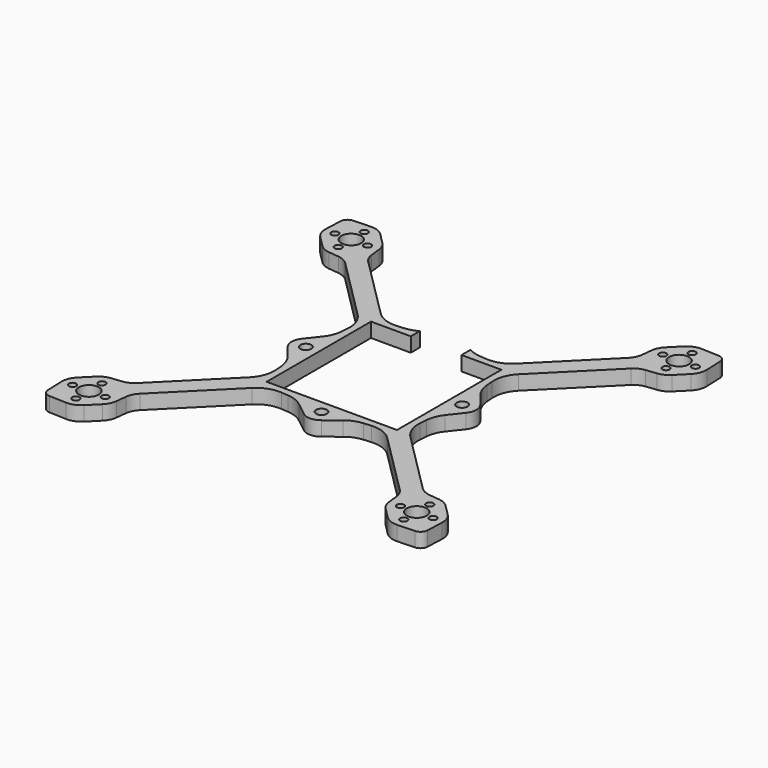
from build123d import *

# Parameters (mm, degrees)
F0_R     = 1
F0_R_2   = 2.75
F0_R_3   = 1.5
F1_DEPTH = 4


with BuildPart() as f1:
    # F0 (on Top) → F1 (new body)
    with BuildSketch(Plane.XY):
        with BuildLine():
            Line((-18, -18), (-18, 18))
            Line((-18, 18), (-7, 18))
            Line((-7, 18), (-7, 21.136517))
            ThreePointArc((-7, 21.136517), (-8.652636, 20.40417), (-10.427502, 20.061548))
            Line((-10.427502, 20.061548), (-12.414831, 19.907267))
            ThreePointArc((-12.414831, 19.907267), (-15.806951, 20.37921), (-18.69088, 22.226414))
            Line((-18.69088, 22.226414), (-35.882908, 39.418442))
            ThreePointArc((-35.882908, 39.418442), (-36.85389, 40.788032), (-37.316792, 42.401818))
            Line((-37.316792, 42.401818), (-37.636526, 45.279423))
            ThreePointArc((-37.636526, 45.279423), (-38.099429, 46.893209), (-39.070411, 48.262799))
            Line((-39.070411, 48.262799), (-41.9391, 51.131488))
            ThreePointArc((-41.9391, 51.131488), (-43.653931, 52.252674), (-45.674474, 52.591959))
            Line((-45.674474, 52.591959), (-50.481223, 52.399689))
            ThreePointArc((-50.481223, 52.399689), (-51.815501, 51.815501), (-52.399689, 50.481223))
            Line((-52.399689, 50.481223), (-52.591959, 45.674474))
            ThreePointArc((-52.591959, 45.674474), (-52.252674, 43.653931), (-51.131488, 41.9391))
            Line((-51.131488, 41.9391), (-48.262799, 39.070411))
            ThreePointArc((-48.262799, 39.070411), (-46.893209, 38.099429), (-45.279423, 37.636526))
            Line((-45.279423, 37.636526), (-42.401818, 37.316792))
            ThreePointArc((-42.401818, 37.316792), (-40.788032, 36.85389), (-39.418442, 35.882908))
            Line((-39.418442, 35.882908), (-22.226414, 18.69088))
            ThreePointArc((-22.226414, 18.69088), (-20.37921, 15.806951), (-19.907267, 12.414831))
            Line((-19.907267, 12.414831), (-20.061548, 10.427502))
            ThreePointArc((-20.061548, 10.427502), (-20.58741, 8.132004), (-21.758856, 6.089075))
            Line((-21.758856, 6.089075), (-24.646599, 2.431827))
            ThreePointArc((-24.646599, 2.431827), (-25.49094, 0), (-24.646599, -2.431827))
            Line((-24.646599, -2.431827), (-21.758856, -6.089075))
            ThreePointArc((-21.758856, -6.089075), (-20.58741, -8.132004), (-20.061548, -10.427502))
            Line((-20.061548, -10.427502), (-19.907267, -12.414831))
            ThreePointArc((-19.907267, -12.414831), (-20.37921, -15.806951), (-22.226414, -18.69088))
            Line((-22.226414, -18.69088), (-39.418442, -35.882908))
            ThreePointArc((-39.418442, -35.882908), (-40.788032, -36.85389), (-42.401818, -37.316792))
            Line((-42.401818, -37.316792), (-45.279423, -37.636526))
            ThreePointArc((-45.279423, -37.636526), (-46.893209, -38.099429), (-48.262799, -39.070411))
            Line((-48.262799, -39.070411), (-51.131488, -41.9391))
            ThreePointArc((-51.131488, -41.9391), (-52.252674, -43.653931), (-52.591959, -45.674474))
            Line((-52.591959, -45.674474), (-52.399689, -50.481223))
            ThreePointArc((-52.399689, -50.481223), (-51.815501, -51.815501), (-50.481223, -52.399689))
            Line((-50.481223, -52.399689), (-45.674474, -52.591959))
            ThreePointArc((-45.674474, -52.591959), (-43.653931, -52.252674), (-41.9391, -51.131488))
            Line((-41.9391, -51.131488), (-39.070411, -48.262799))
            ThreePointArc((-39.070411, -48.262799), (-38.099429, -46.893209), (-37.636526, -45.279423))
            Line((-37.636526, -45.279423), (-37.316792, -42.401818))
            ThreePointArc((-37.316792, -42.401818), (-36.85389, -40.788032), (-35.882908, -39.418442))
            Line((-35.882908, -39.418442), (-18.69088, -22.226414))
            ThreePointArc((-18.69088, -22.226414), (-15.806951, -20.37921), (-12.414831, -19.907267))
            Line((-12.414831, -19.907267), (-10.427502, -20.061548))
            ThreePointArc((-10.427502, -20.061548), (-8.132004, -20.58741), (-6.089075, -21.758856))
            Line((-6.089075, -21.758856), (-2.431827, -24.646599))
            ThreePointArc((-2.431827, -24.646599), (0, -25.49094), (2.431827, -24.646599))
            Line((2.431827, -24.646599), (6.089075, -21.758856))
            ThreePointArc((6.089075, -21.758856), (8.132004, -20.58741), (10.427502, -20.061548))
            Line((10.427502, -20.061548), (12.414831, -19.907267))
            ThreePointArc((12.414831, -19.907267), (15.806951, -20.37921), (18.69088, -22.226414))
            Line((18.69088, -22.226414), (35.882908, -39.418442))
            ThreePointArc((35.882908, -39.418442), (36.85389, -40.788032), (37.316792, -42.401818))
            Line((37.316792, -42.401818), (37.636526, -45.279423))
            ThreePointArc((37.636526, -45.279423), (38.099429, -46.893209), (39.070411, -48.262799))
            Line((39.070411, -48.262799), (41.9391, -51.131488))
            ThreePointArc((41.9391, -51.131488), (43.653931, -52.252674), (45.674474, -52.591959))
            Line((45.674474, -52.591959), (50.481223, -52.399689))
            ThreePointArc((50.481223, -52.399689), (51.815501, -51.815501), (52.399689, -50.481223))
            Line((52.399689, -50.481223), (52.591959, -45.674474))
            ThreePointArc((52.591959, -45.674474), (52.252674, -43.653931), (51.131488, -41.9391))
            Line((51.131488, -41.9391), (48.262799, -39.070411))
            ThreePointArc((48.262799, -39.070411), (46.893209, -38.099429), (45.279423, -37.636526))
            Line((45.279423, -37.636526), (42.401818, -37.316792))
            ThreePointArc((42.401818, -37.316792), (40.788032, -36.85389), (39.418442, -35.882908))
            Line((39.418442, -35.882908), (22.226414, -18.69088))
            ThreePointArc((22.226414, -18.69088), (20.37921, -15.806951), (19.907267, -12.414831))
            Line((19.907267, -12.414831), (20.061548, -10.427502))
            ThreePointArc((20.061548, -10.427502), (20.58741, -8.132004), (21.758856, -6.089075))
            Line((21.758856, -6.089075), (24.646599, -2.431827))
            ThreePointArc((24.646599, -2.431827), (25.49094, 0), (24.646599, 2.431827))
            Line((24.646599, 2.431827), (21.758856, 6.089075))
            ThreePointArc((21.758856, 6.089075), (20.58741, 8.132004), (20.061548, 10.427502))
            Line((20.061548, 10.427502), (19.907267, 12.414831))
            ThreePointArc((19.907267, 12.414831), (20.37921, 15.806951), (22.226414, 18.69088))
            Line((22.226414, 18.69088), (39.418442, 35.882908))
            ThreePointArc((39.418442, 35.882908), (40.788032, 36.85389), (42.401818, 37.316792))
            Line((42.401818, 37.316792), (45.279423, 37.636526))
            ThreePointArc((45.279423, 37.636526), (46.893209, 38.099429), (48.262799, 39.070411))
            Line((48.262799, 39.070411), (51.131488, 41.9391))
            ThreePointArc((51.131488, 41.9391), (52.252674, 43.653931), (52.591959, 45.674474))
            Line((52.591959, 45.674474), (52.399689, 50.481223))
            ThreePointArc((52.399689, 50.481223), (51.815501, 51.815501), (50.481223, 52.399689))
            Line((50.481223, 52.399689), (45.674474, 52.591959))
            ThreePointArc((45.674474, 52.591959), (43.653931, 52.252674), (41.9391, 51.131488))
            Line((41.9391, 51.131488), (39.070411, 48.262799))
            ThreePointArc((39.070411, 48.262799), (38.099429, 46.893209), (37.636526, 45.279423))
            Line((37.636526, 45.279423), (37.316792, 42.401818))
            ThreePointArc((37.316792, 42.401818), (36.85389, 40.788032), (35.882908, 39.418442))
            Line((35.882908, 39.418442), (18.69088, 22.226414))
            ThreePointArc((18.69088, 22.226414), (15.806951, 20.37921), (12.414831, 19.907267))
            Line((12.414831, 19.907267), (10.427502, 20.061548))
            ThreePointArc((10.427502, 20.061548), (8.652636, 20.40417), (7, 21.136517))
            Line((7, 21.136517), (7, 18))
            Line((7, 18), (18, 18))
            Line((18, 18), (18, -18))
            Line((18, -18), (-18, -18))
        make_face()
        with Locations((-45.254834, -49.754834)):
            Circle(F0_R, mode=Mode.SUBTRACT)
        with Locations((-49.754834, -45.254834)):
            Circle(F0_R, mode=Mode.SUBTRACT)
        with Locations((-45.254834, -45.254834)):
            Circle(F0_R_2, mode=Mode.SUBTRACT)
        with Locations((-40.754834, -45.254834)):
            Circle(F0_R, mode=Mode.SUBTRACT)
        with Locations((-45.254834, -40.754834)):
            Circle(F0_R, mode=Mode.SUBTRACT)
        with Locations((45.254834, -49.754834)):
            Circle(F0_R, mode=Mode.SUBTRACT)
        with Locations((40.754834, -45.254834)):
            Circle(F0_R, mode=Mode.SUBTRACT)
        with Locations((45.254834, -45.254834)):
            Circle(F0_R_2, mode=Mode.SUBTRACT)
        with Locations((45.254834, -40.754834)):
            Circle(F0_R, mode=Mode.SUBTRACT)
        with Locations((49.754834, -45.254834)):
            Circle(F0_R, mode=Mode.SUBTRACT)
        with Locations((0, -21.566757)):
            Circle(F0_R_3, mode=Mode.SUBTRACT)
        with Locations((-21.566757, 0)):
            Circle(F0_R_3, mode=Mode.SUBTRACT)
        with Locations((-49.754834, 45.254834)):
            Circle(F0_R, mode=Mode.SUBTRACT)
        with Locations((-45.254834, 40.754834)):
            Circle(F0_R, mode=Mode.SUBTRACT)
        with Locations((-45.254834, 45.254834)):
            Circle(F0_R_2, mode=Mode.SUBTRACT)
        with Locations((-40.754834, 45.254834)):
            Circle(F0_R, mode=Mode.SUBTRACT)
        with Locations((-45.254834, 49.754834)):
            Circle(F0_R, mode=Mode.SUBTRACT)
        with Locations((21.566757, 0)):
            Circle(F0_R_3, mode=Mode.SUBTRACT)
        with Locations((45.254834, 40.754834)):
            Circle(F0_R, mode=Mode.SUBTRACT)
        with Locations((40.754834, 45.254834)):
            Circle(F0_R, mode=Mode.SUBTRACT)
        with Locations((45.254834, 45.254834)):
            Circle(F0_R_2, mode=Mode.SUBTRACT)
        with Locations((49.754834, 45.254834)):
            Circle(F0_R, mode=Mode.SUBTRACT)
        with Locations((45.254834, 49.754834)):
            Circle(F0_R, mode=Mode.SUBTRACT)
    extrude(amount=F1_DEPTH)


solid = f1.part
